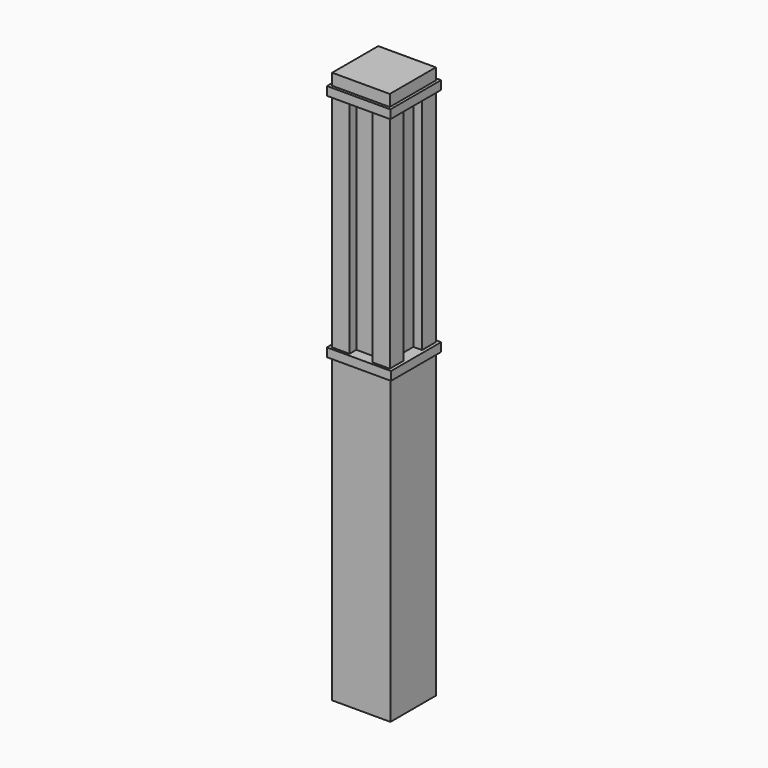
from build123d import *

# Parameters (mm, degrees)
F0_W      = 128.778
F0_H      = 125.476
F1_DEPTH  = 673.1
F2_W      = 88.9
F2_H      = 88.9
F3_DEPTH  = 508
F4_W      = 141.477994
F4_H      = 138.175994
F4_W_2    = 88.9
F4_H_2    = 88.9
F5_DEPTH  = 12.7
F6_W      = 141.477994
F6_H      = 138.175994
F6_W_2    = 128.778
F6_H_2    = 125.476
F7_DEPTH  = 6.35
F8_W      = 38.1
F8_H      = 38.1
F9_DEPTH  = 495.3
F10_W     = 139.7
F10_H     = 139.7
F10_W_2   = 127
F10_H_2   = 127
F11_DEPTH = 6.35
F12_W     = 139.7
F12_H     = 139.7
F13_DEPTH = 12.7
F14_W     = 127
F14_H     = 127
F15_DEPTH = 25.4


with BuildPart() as f1:
    # F0 (on Top) → F1 (new body)
    with BuildSketch(Plane.XY):
        Rectangle(F0_W, F0_H)
    extrude(amount=F1_DEPTH)

    # F2 (on face) → F3 (join)
    with BuildSketch(Plane.XY.offset(673.1)):
        Rectangle(F2_W, F2_H)
    extrude(amount=F3_DEPTH)

    # F4 (on face) → F5 (join)
    with BuildSketch(Plane.XY.offset(673.1)):
        Rectangle(F4_W, F4_H)
        Rectangle(F4_W_2, F4_H_2, mode=Mode.SUBTRACT)
    extrude(amount=F5_DEPTH)

    # F6 (on face) → F7 (join)
    with BuildSketch(Plane(origin=(0, 0, 673.1), x_dir=(1, 0, 0), z_dir=(0, 0, -1))):
        Rectangle(F6_W, F6_H)
        Rectangle(F6_W_2, F6_H_2, mode=Mode.SUBTRACT)
    extrude(amount=F7_DEPTH)

    # F8 (on face) → F9 (join)
    with BuildSketch(Plane.XY.offset(685.8)):
        with Locations((44.45, 44.45)):
            Rectangle(F8_W, F8_H)
        with Locations((44.45, -44.45)):
            Rectangle(F8_W, F8_H)
        with Locations((-44.45, -44.45)):
            Rectangle(F8_W, F8_H)
        with Locations((-44.45, 44.45)):
            Rectangle(F8_W, F8_H)
    extrude(amount=F9_DEPTH)

    # F10 (on face) → F11 (join)
    with BuildSketch(Plane.XY.offset(1181.1)):
        Rectangle(F10_W, F10_H)
        Rectangle(F10_W_2, F10_H_2, mode=Mode.SUBTRACT)
    extrude(amount=-F11_DEPTH)

    # F12 (on face) → F13 (join)
    with BuildSketch(Plane.XY.offset(1181.1)):
        Rectangle(F12_W, F12_H)
    extrude(amount=F13_DEPTH)

    # F14 (on face) → F15 (join)
    with BuildSketch(Plane.XY.offset(1193.8)):
        Rectangle(F14_W, F14_H)
    extrude(amount=F15_DEPTH)


solid = f1.part
